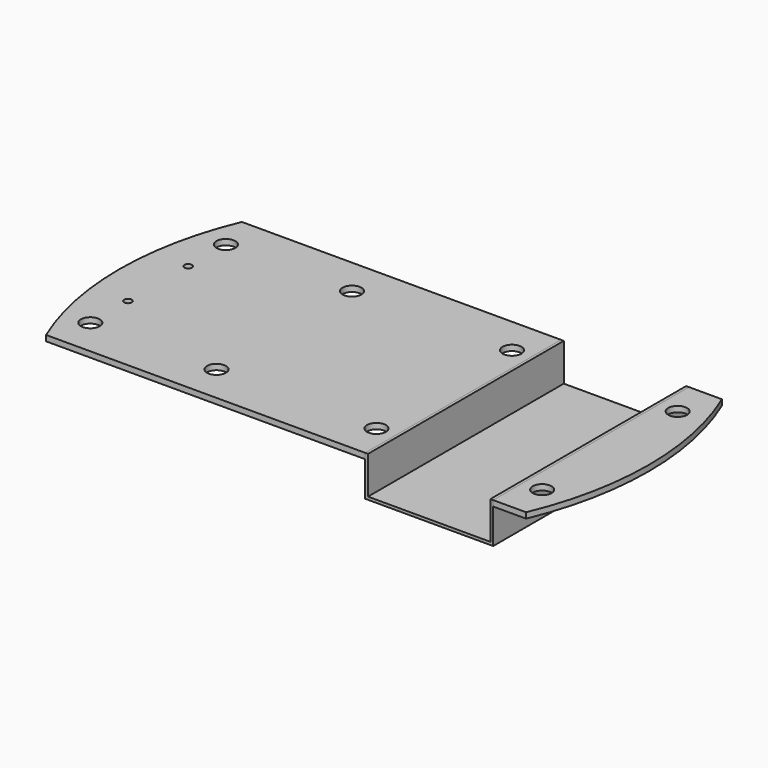
from build123d import *

# Parameters (mm, degrees)
F0_R     = 5
F0_R_2   = 2
F1_DEPTH = 3
F0_W     = 68
F0_H     = 130
F2_DEPTH = 21.5
F3_T     = -1.5


with BuildPart() as f1:
    # F0 (on Top) → F1 (new body)
    with BuildSketch(Plane.XY):
        with BuildLine():
            Line((-127.5, -65), (42, -65))
            Line((42, -65), (42, 65))
            Line((42, 65), (-127.5, 65))
            ThreePointArc((-127.5, 65), (-140.668924, 0), (-127.5, -65))
        make_face()
        with Locations((-120, -45)):
            Circle(F0_R, mode=Mode.SUBTRACT)
        with Locations((-53, -45)):
            Circle(F0_R, mode=Mode.SUBTRACT)
        with Locations((-120, -20)):
            Circle(F0_R_2, mode=Mode.SUBTRACT)
        with Locations((32, -45)):
            Circle(F0_R, mode=Mode.SUBTRACT)
        with Locations((-120, 20)):
            Circle(F0_R_2, mode=Mode.SUBTRACT)
        with Locations((-120, 45)):
            Circle(F0_R, mode=Mode.SUBTRACT)
        with Locations((-53, 45)):
            Circle(F0_R, mode=Mode.SUBTRACT)
        with Locations((32, 45)):
            Circle(F0_R, mode=Mode.SUBTRACT)
        with BuildLine():
            Line((110, -65), (127.5, -65))
            ThreePointArc((127.5, -65), (140.668924, 0), (127.5, 65))
            Line((127.5, 65), (110, 65))
            Line((110, 65), (110, -65))
        make_face()
        with Locations((120, -45)):
            Circle(F0_R, mode=Mode.SUBTRACT)
        with Locations((120, 45)):
            Circle(F0_R, mode=Mode.SUBTRACT)
        with BuildLine():
            Line((-127.5, -65), (42, -65))
            Line((42, -65), (42, 65))
            Line((42, 65), (-127.5, 65))
            ThreePointArc((-127.5, 65), (-140.668924, 0), (-127.5, -65))
        make_face()
        with Locations((-120, -45)):
            Circle(F0_R, mode=Mode.SUBTRACT)
        with Locations((-53, -45)):
            Circle(F0_R, mode=Mode.SUBTRACT)
        with Locations((-120, -20)):
            Circle(F0_R_2, mode=Mode.SUBTRACT)
        with Locations((32, -45)):
            Circle(F0_R, mode=Mode.SUBTRACT)
        with Locations((-120, 20)):
            Circle(F0_R_2, mode=Mode.SUBTRACT)
        with Locations((-120, 45)):
            Circle(F0_R, mode=Mode.SUBTRACT)
        with Locations((-53, 45)):
            Circle(F0_R, mode=Mode.SUBTRACT)
        with Locations((32, 45)):
            Circle(F0_R, mode=Mode.SUBTRACT)
    extrude(amount=-F1_DEPTH)


with BuildPart() as f2:
    # F0 (on Top) → F2 (new body)
    with BuildSketch(Plane.XY):
        with Locations((76, 0)):
            Rectangle(F0_W, F0_H)
    extrude(amount=-F2_DEPTH)

    # F3
    f3_openings = [f2.faces().sort_by_distance(p)[0] for p in [
        (76, -65, -10.75),
        (76, 65, -10.75),
        (76, 0, 0),
    ]]
    offset(amount=F3_T, openings=f3_openings)


solid = Compound([f1.part, f2.part])
